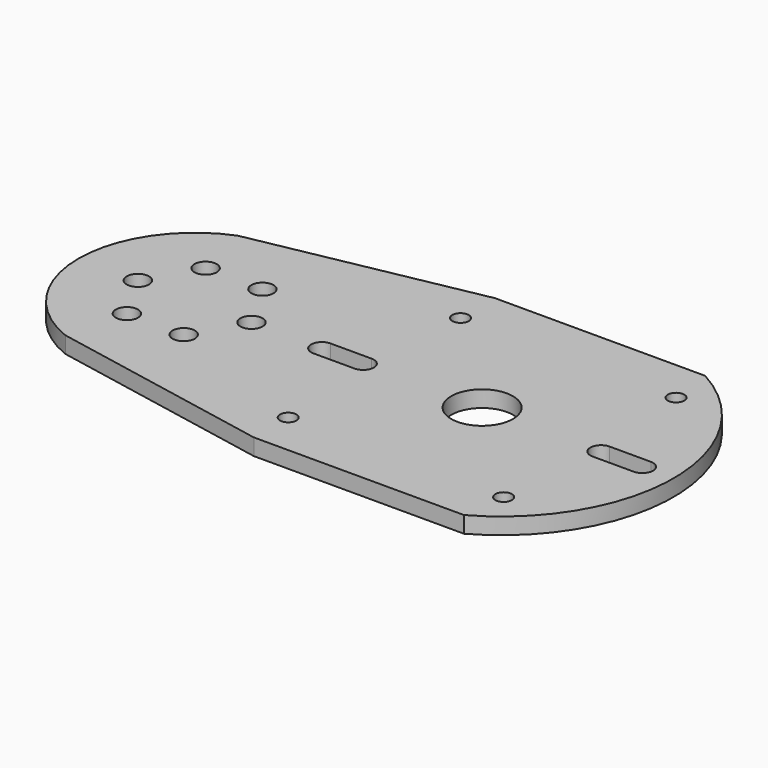
from build123d import *

# Parameters (mm, degrees)
F0_R     = 2.54
F0_R_2   = 3.429
F0_R_3   = 9.525
F1_DEPTH = 5.08


with BuildPart() as f1:
    # F0 (on Top) → F1 (new body)
    with BuildSketch(Plane.XY):
        with BuildLine():
            Line((25.955052, 46.498306), (-42.778374, 33.247106))
            ThreePointArc((-42.778374, 33.247106), (-65.278, 0), (-42.778374, -33.247106))
            Line((-42.778374, -33.247106), (25.955052, -46.498306))
            Line((25.955052, -46.498306), (90.782119, -46.498306))
            ThreePointArc((90.782119, -46.498306), (118.253811, 0), (90.782119, 46.498306))
            Line((90.782119, 46.498306), (25.955052, 46.498306))
        make_face()
        with Locations((25.955052, -33.226948)):
            Circle(F0_R, mode=Mode.SUBTRACT)
        with Locations((-38.227, -15.177961)):
            Circle(F0_R_2, mode=Mode.SUBTRACT)
        with Locations((-20.701, -15.177961)):
            Circle(F0_R_2, mode=Mode.SUBTRACT)
        with Locations((92.408948, -33.226948)):
            Circle(F0_R, mode=Mode.SUBTRACT)
        with Locations((-46.99, 0)):
            Circle(F0_R_2, mode=Mode.SUBTRACT)
        with Locations((-38.227, 15.177961)):
            Circle(F0_R_2, mode=Mode.SUBTRACT)
        with Locations((-20.701, 15.177961)):
            Circle(F0_R_2, mode=Mode.SUBTRACT)
        with Locations((-11.938, 0)):
            Circle(F0_R_2, mode=Mode.SUBTRACT)
        with BuildLine():
            ThreePointArc((22.500319, 3.302), (25.802319, 0), (22.500319, -3.302))
            Line((22.500319, -3.302), (9.762189, -3.302))
            ThreePointArc((9.762189, -3.302), (6.460189, 0), (9.762189, 3.302))
            Line((9.762189, 3.302), (22.500319, 3.302))
        make_face(mode=Mode.SUBTRACT)
        with Locations((25.955052, 33.226948)):
            Circle(F0_R, mode=Mode.SUBTRACT)
        with Locations((59.182, 0)):
            Circle(F0_R_3, mode=Mode.SUBTRACT)
        with BuildLine():
            ThreePointArc((95.863681, -3.302), (92.561681, 0), (95.863681, 3.302))
            Line((95.863681, 3.302), (108.601811, 3.302))
            ThreePointArc((108.601811, 3.302), (111.903811, 0), (108.601811, -3.302))
            Line((108.601811, -3.302), (95.863681, -3.302))
        make_face(mode=Mode.SUBTRACT)
        with Locations((92.408948, 33.226948)):
            Circle(F0_R, mode=Mode.SUBTRACT)
    extrude(amount=-F1_DEPTH)


solid = f1.part
